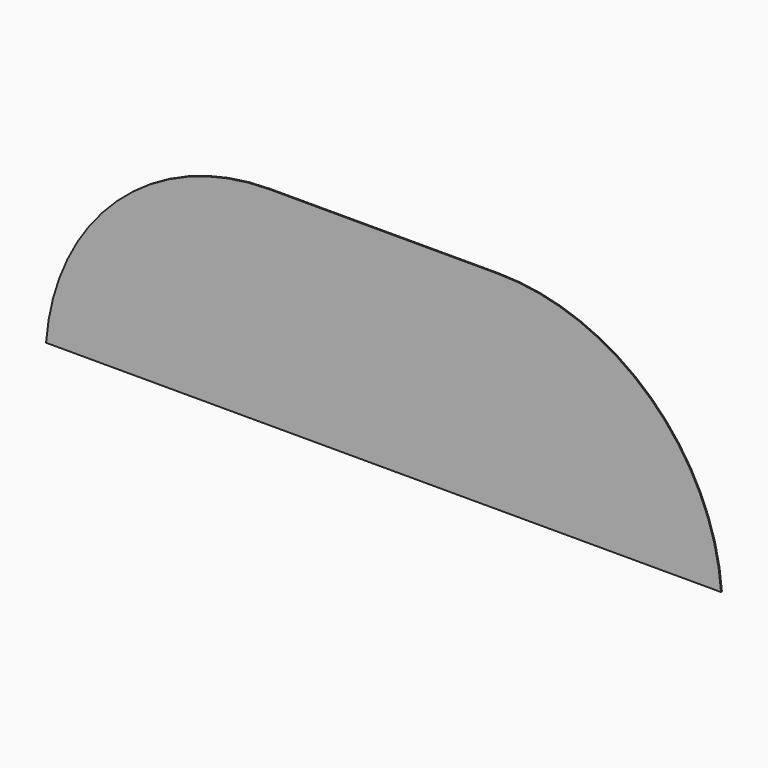
from build123d import *

# Parameters (mm, degrees)
F1_DEPTH = 3


with BuildPart() as f1:
    # F0 (on Front) → F1 (new body)
    with BuildSketch(Plane.XZ):
        with BuildLine():
            Line((-645, 0), (0, 0))
            Line((0, 0), (660, 0))
            Line((660, 0), (1305, 0))
            ThreePointArc((1305, 0), (1100.461406, 426.808511), (660, 600))
            Line((660, 600), (0, 600))
            ThreePointArc((0, 600), (-440.461406, 426.808511), (-645, 0))
        make_face()
        with BuildLine():
            Line((-645, 0), (0, 0))
            Line((0, 0), (660, 0))
            Line((660, 0), (1305, 0))
            ThreePointArc((1305, 0), (1100.461406, 426.808511), (660, 600))
            Line((660, 600), (0, 600))
            ThreePointArc((0, 600), (-440.461406, 426.808511), (-645, 0))
        make_face()
    extrude(amount=F1_DEPTH)


solid = f1.part
